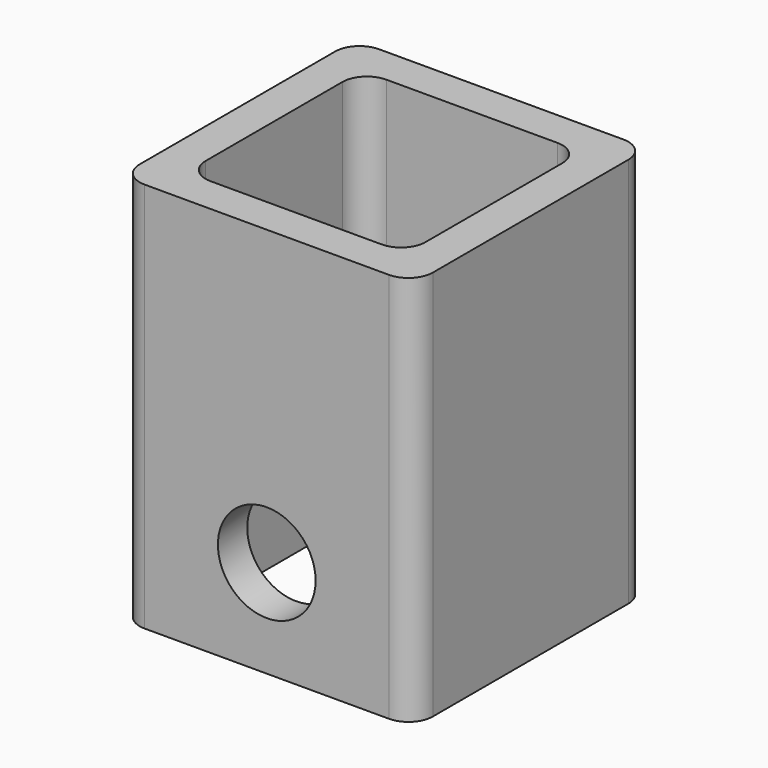
from build123d import *

# Parameters (mm, degrees)
F0_W     = 38.1
F0_H     = 38.1
F0_W_2   = 28.575
F0_H_2   = 28.575
F1_DEPTH = 25.4
F2_R     = 3.175
F3_R     = 6.35
F4_DEPTH = 38.1


with BuildPart() as f1:
    # F0 (on Top) → F1 (new body, symmetric)
    with BuildSketch(Plane.XY):
        Rectangle(F0_W, F0_H)
        Rectangle(F0_W_2, F0_H_2, mode=Mode.SUBTRACT)
    extrude(amount=F1_DEPTH, both=True)

    # F2
    f2_edges = [f1.edges().sort_by_distance(p)[0] for p in [
        (19.05, -19.05, 0),
        (-19.05, -19.05, 0),
        (-14.2875, 14.2875, 0),
        (14.2875, 14.2875, 0),
        (-19.05, 19.05, 0),
        (19.05, 19.05, 0),
        (-14.2875, -14.2875, 0),
        (14.2875, -14.2875, 0),
    ]]
    fillet(f2_edges, radius=F2_R)

    # F3 (on face) → F4 (cut, through all)
    with BuildSketch(Plane.XZ.offset(19.05)):
        with Locations((0, -12.7)):
            Circle(F3_R)
    extrude(amount=-F4_DEPTH, mode=Mode.SUBTRACT)


solid = f1.part
